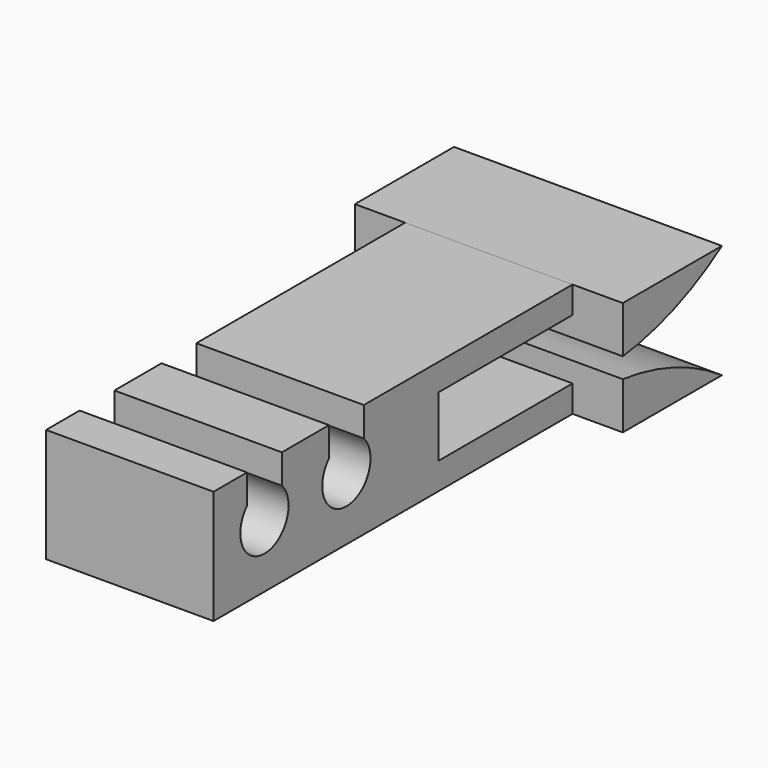
from build123d import *

# Parameters (mm, degrees)
F0_W     = 6.35
F0_H     = 4.318
F1_DEPTH = 10.668
F3_DEPTH = 3.175
F4_W     = 6.35
F4_H     = 1.016
F5_DEPTH = 6.35
F6_W     = 3.175
F6_H     = 1.016
F7_DEPTH = 4.699
F9_DEPTH = 10.16


with BuildPart() as f1:
    # F0 (on Front) → F1 (new body)
    with BuildSketch(Plane.XZ):
        Rectangle(F0_W, F0_H)
    extrude(amount=-F1_DEPTH)

    # F2 (on Right) → F3 (cut, symmetric)
    with BuildSketch(Plane.YZ):
        with BuildLine():
            ThreePointArc((1.5875, 1.0445686245), (1.9870290503, -0.8066591111), (3.556, 0.254))
            ThreePointArc((3.556, 0.254), (3.4736591111, 0.6799709497), (3.2385, 1.0445686245))
            Line((3.2385, 1.0445686245), (3.2385, 0.7229302428))
            Line((3.2385, 0.7229302428), (2.413, 0.7229302428))
            Line((2.413, 0.7229302428), (1.5875, 0.7229302428))
            Line((1.5875, 0.7229302428), (1.5875, 1.0445686245))
        make_face()
        with BuildLine():
            Line((3.2385, 0.7229302428), (3.2385, 1.0445686245))
            ThreePointArc((3.2385, 1.0445686245), (2.8617923029, 1.3052061971), (2.413, 1.397))
            Line((2.413, 1.397), (2.413, 0.7229302428))
            Line((2.413, 0.7229302428), (3.2385, 0.7229302428))
        make_face()
        with BuildLine():
            ThreePointArc((2.413, 1.397), (2.8617923029, 1.3052061971), (3.2385, 1.0445686245))
            Line((3.2385, 1.0445686245), (3.2385, 2.2007736843))
            Line((3.2385, 2.2007736843), (2.413, 2.2007736843))
            Line((2.413, 2.2007736843), (2.413, 1.397))
        make_face()
        with BuildLine():
            Line((1.5875, 2.2007736843), (1.5875, 1.0445686245))
            ThreePointArc((1.5875, 1.0445686245), (1.9642076971, 1.3052061971), (2.413, 1.397))
            Line((2.413, 1.397), (2.413, 2.2007736843))
            Line((2.413, 2.2007736843), (1.5875, 2.2007736843))
        make_face()
        with BuildLine():
            ThreePointArc((2.413, 1.397), (1.9642076971, 1.3052061971), (1.5875, 1.0445686245))
            Line((1.5875, 1.0445686245), (1.5875, 0.7229302428))
            Line((1.5875, 0.7229302428), (2.413, 0.7229302428))
            Line((2.413, 0.7229302428), (2.413, 1.397))
        make_face()
        with BuildLine():
            ThreePointArc((5.4715363942, 1.0445686245), (5.8710654445, -0.8066591111), (7.4400363942, 0.254))
            ThreePointArc((7.4400363942, 0.254), (7.3576955054, 0.6799709497), (7.1225363942, 1.0445686245))
            Line((7.1225363942, 1.0445686245), (7.1225363942, 0.7229302428))
            Line((7.1225363942, 0.7229302428), (6.2970363942, 0.7229302428))
            Line((6.2970363942, 0.7229302428), (5.4715363942, 0.7229302428))
            Line((5.4715363942, 0.7229302428), (5.4715363942, 1.0445686245))
        make_face()
        with BuildLine():
            Line((7.1225363942, 0.7229302428), (7.1225363942, 1.0445686245))
            ThreePointArc((7.1225363942, 1.0445686245), (6.7458286971, 1.3052061971), (6.2970363942, 1.397))
            Line((6.2970363942, 1.397), (6.2970363942, 0.7229302428))
            Line((6.2970363942, 0.7229302428), (7.1225363942, 0.7229302428))
        make_face()
        with BuildLine():
            ThreePointArc((6.2970363942, 1.397), (6.7458286971, 1.3052061971), (7.1225363942, 1.0445686245))
            Line((7.1225363942, 1.0445686245), (7.1225363942, 2.2007736843))
            Line((7.1225363942, 2.2007736843), (6.2970363942, 2.2007736843))
            Line((6.2970363942, 2.2007736843), (6.2970363942, 1.397))
        make_face()
        with BuildLine():
            Line((5.4715363942, 2.2007736843), (5.4715363942, 1.0445686245))
            ThreePointArc((5.4715363942, 1.0445686245), (5.8482440914, 1.3052061971), (6.2970363942, 1.397))
            Line((6.2970363942, 1.397), (6.2970363942, 2.2007736843))
            Line((6.2970363942, 2.2007736843), (5.4715363942, 2.2007736843))
        make_face()
        with BuildLine():
            ThreePointArc((6.2970363942, 1.397), (5.8482440914, 1.3052061971), (5.4715363942, 1.0445686245))
            Line((5.4715363942, 1.0445686245), (5.4715363942, 0.7229302428))
            Line((5.4715363942, 0.7229302428), (6.2970363942, 0.7229302428))
            Line((6.2970363942, 0.7229302428), (6.2970363942, 1.397))
        make_face()
    extrude(amount=F3_DEPTH, both=True, mode=Mode.SUBTRACT)

    # F4 (on face) → F5 (join)
    with BuildSketch(Plane(origin=(0, 10.668, 0), x_dir=(-1, 0, 0), z_dir=(0, 1, 0))):
        with Locations((0, 1.651)):
            Rectangle(F4_W, F4_H)
        with Locations((0, -1.651)):
            Rectangle(F4_W, F4_H)
    extrude(amount=F5_DEPTH)


with BuildPart() as f7:
    # F6 (on face) → F7 (new body)
    with BuildSketch(Plane(origin=(0, 17.018, 0), x_dir=(-1, 0, 0), z_dir=(0, 1, 0))):
        Polygon((-3.175, 1.143), (-3.175, 2.159), (-5.08, 2.159), (-5.08, 0.381), (0, 0.381), (0, 1.143), align=None)
        with Locations((-1.5875, 1.651)):
            Rectangle(F6_W, F6_H)
        with Locations((1.5875, 1.651)):
            Rectangle(F6_W, F6_H)
        Polygon((3.175, 1.143), (0, 1.143), (0, 0.381), (5.08, 0.381), (5.08, 2.159), (3.175, 2.159), align=None)
    extrude(amount=F7_DEPTH)

    # F8 (on face) → F9 (intersect, through all)
    with BuildSketch(Plane(origin=(-5.08, 0, 0), x_dir=(0, -1, 0), z_dir=(-1, 0, 0))):
        with BuildLine():
            Line((-17.018, 2.159), (-21.717, 2.159))
            ThreePointArc((-21.717, 2.159), (-19.4752190576, 0.9853139193), (-17.018, 0.381))
            Line((-17.018, 0.381), (-17.018, 2.159))
        make_face()
    extrude(amount=-F9_DEPTH, mode=Mode.INTERSECT)


with BuildPart() as f10_1:
    # F10: instance of F7
    add(f7.part.mirror(Plane.XY))


solid = Compound([f1.part, f7.part, f10_1.part])
